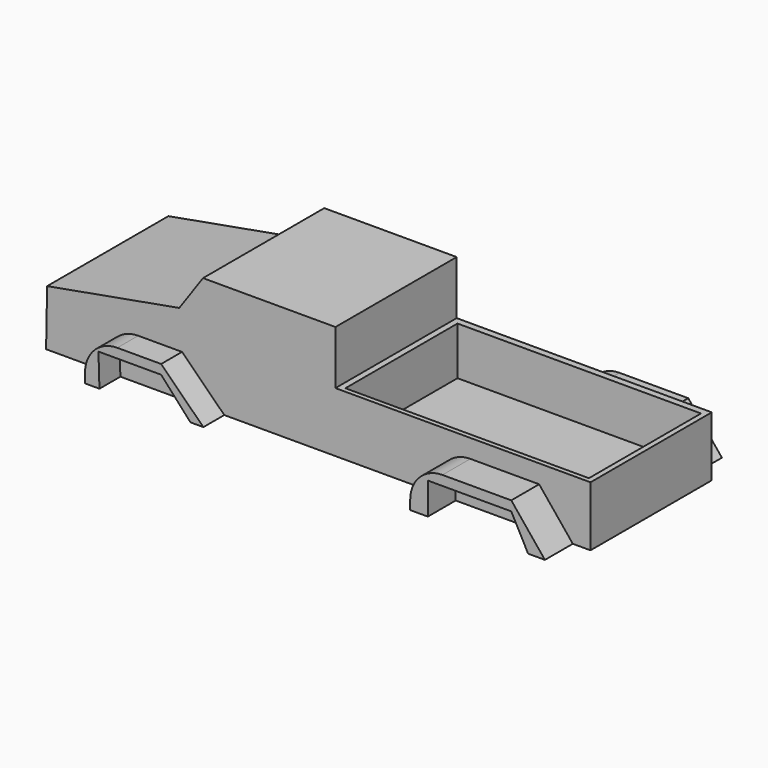
from build123d import *

# Parameters (mm, degrees)
F1_DEPTH  = 73.0149932206
F2_W      = 104.7701835632
F2_H      = 146.0299864411
F2_W_2    = 132.2311162949
F2_H_2    = 146.0643596947
F3_DEPTH  = 52.4154347368
F5_DEPTH  = 98.2172647491
F6_W      = 16.9606506824
F6_H      = 30.608355999
F7_DEPTH  = 106.583558023
F8_W      = 234.6536517143
F8_H      = 135.0331306458
F9_DEPTH  = 105.9223469347
F10_W     = 239.1506135464
F10_H     = 140.1097029448
F11_DEPTH = 11.3217700273
F12_R     = 31.0869450518


with BuildPart() as f1:
    # F0 (on Front) → F1 (new body, symmetric)
    with BuildSketch(Plane.XZ):
        Polygon((-196.8656778336, 76.734662056), (-324.1775035858, 53.8567006588), (-325.180709362, 0), (-285.0417494774, 0), (-285.0417494774, 34.4426184893), (-233.2133054733, 34.4426184893), (-232.1556210518, 0), (76.5154957771, 0), (76.5154957771, 33.5566699505), (141.2207484245, 33.5566699505), (140.163064003, 0), (199.3955373764, 0), (199.3955373764, 57.7045381069), (-46.3645458221, 57.7045381069), (-46.3645458221, 109.5087528229), (-173.955321312, 109.5087528229), align=None)
    extrude(amount=F1_DEPTH, both=True)

    # F2 (on face) → F3 (join)
    with BuildSketch(Plane(origin=(0, 0, 0), x_dir=(1, 0, 0), z_dir=(0, 0, -1))):
        with Locations((-246.2981939316, 0)):
            Rectangle(F2_W, F2_H)
        with Locations((102.5924086571, -0.0171866268)):
            Rectangle(F2_W_2, F2_H_2)
    extrude(amount=-F3_DEPTH)

    # F4 (on Front) → F5 (join, symmetric)
    with BuildSketch(Plane.XZ):
        Polygon((-194.1774785519, 40.3228625655), (-267.4925923347, 40.3228625655), (-267.4925923347, 31.2233567238), (-254.5548379421, 31.2233567238), (-194.1774785519, 31.2233567238), align=None)
        Polygon((-153.4504890442, 0), (-194.1774785519, 40.3228625655), (-194.1774785519, 31.2233567238), (-165.9055352211, 0), align=None)
        Polygon((-254.5548379421, 31.2233567238), (-267.4925923347, 31.2233567238), (-267.4925923347, 0), (-253.5964548588, 0), align=None)
    extrude(amount=F5_DEPTH, both=True)

    # F6 (on Front) → F7 (join, symmetric)
    with BuildSketch(Plane.XZ):
        Polygon((52.5457262993, 39.950683713), (52.5457262993, 30.608355999), (69.5063769817, 30.608355999), (149.9110460281, 30.608355999), (149.9110460281, 39.950683713), align=None)
        with Locations((61.0260516405, 15.3041779995)):
            Rectangle(F6_W, F6_H)
        Polygon((149.9110460281, 39.950683713), (149.9110460281, 30.608355999), (166.1303341389, 0), (182.3496222496, 0), align=None)
    extrude(amount=F7_DEPTH, both=True)

    # F8 (on Top) → F9 (cut)
    with BuildSketch(Plane.XY):
        with Locations((76.9363343716, -1.0031461716)):
            Rectangle(F8_W, F8_H)
    extrude(amount=F9_DEPTH, mode=Mode.SUBTRACT)

    # F10 (on Top) → F11 (join)
    with BuildSketch(Plane.XY):
        with Locations((76.5912085772, -0.3399476409)):
            Rectangle(F10_W, F10_H)
    extrude(amount=F11_DEPTH)

    # F12
    f12_edges = [f1.edges().sort_by_distance(p)[0] for p in [
        (52.545726, 89.816462, 39.950684),
        (-267.492592, 85.616129, 40.322863),
        (-267.492592, -85.616129, 40.322863),
        (52.545726, -89.799276, 39.950684),
    ]]
    fillet(f12_edges, radius=F12_R)


solid = f1.part
